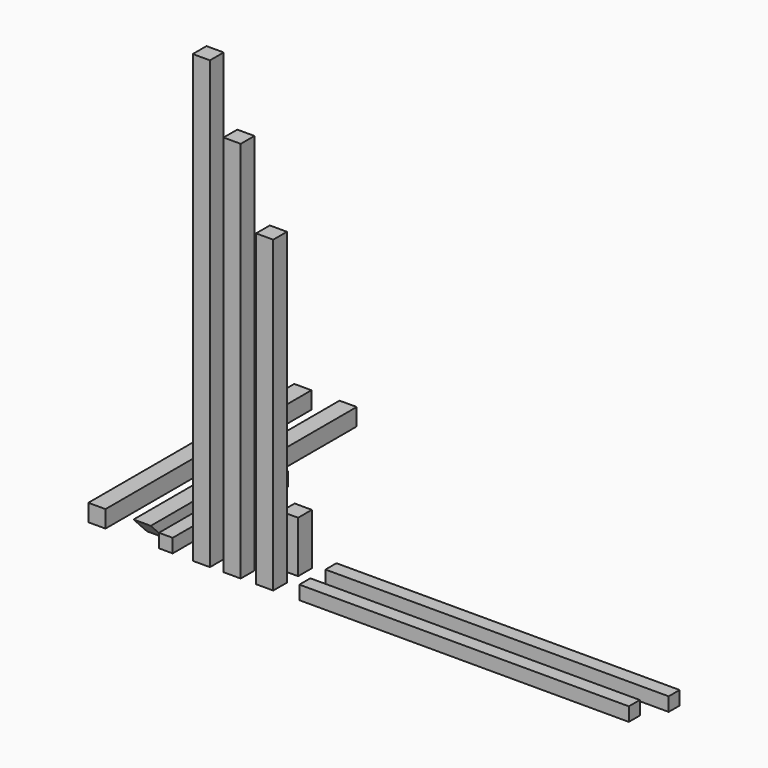
from build123d import *

# Parameters (mm, degrees)
F0_W     = 100
F0_H     = 100
F1_DEPTH = 2600
F2_DEPTH = 2230
F3_DEPTH = 1800
F0_H_2   = 1500
F4_DEPTH = 100
F5_DEPTH = 300
F0_W_2   = 1920
F0_H_3   = 80
F0_W_3   = 2000
F0_W_4   = 80
F0_H_4   = 840
F6_DEPTH = 80
F8_DEPTH = 100


with BuildPart() as f1:
    # F0 (on Top) → F1 (new body)
    with BuildSketch(Plane.XY):
        with Locations((-146.095169, 62.335808)):
            Rectangle(F0_W, F0_H)
    extrude(amount=F1_DEPTH)


with BuildPart() as f2:
    # F0 (on Top) → F2 (new body)
    with BuildSketch(Plane.XY):
        with Locations((33.366184, 62.335808)):
            Rectangle(F0_W, F0_H)
    extrude(amount=F2_DEPTH)


with BuildPart() as f3:
    # F0 (on Top) → F3 (new body)
    with BuildSketch(Plane.XY):
        with Locations((222.795501, 62.335808)):
            Rectangle(F0_W, F0_H)
    extrude(amount=F3_DEPTH)


with BuildPart() as f4:
    # F0 (on Top) → F4 (new body)
    with BuildSketch(Plane.XY):
        with Locations((-490.865839, 762.335808)):
            Rectangle(F0_W, F0_H_2)
        with Locations((-754.561555, 762.335808)):
            Rectangle(F0_W, F0_H_2)
    extrude(amount=F4_DEPTH)

    # F7 (on face) → F8 (cut)
    with BuildSketch(Plane.YZ.offset(-440.865839)):
        Polygon((12.335808, 100), (12.335808, 97.100623), (12.335808, 0), (109.436318, 0), align=None)
    extrude(amount=-F8_DEPTH, mode=Mode.SUBTRACT)


with BuildPart() as f5:
    # F0 (on Top) → F5 (new body)
    with BuildSketch(Plane.XY):
        with Locations((222.795501, 243.335801)):
            Rectangle(F0_W, F0_H)
    extrude(amount=F5_DEPTH)


with BuildPart() as f6:
    # F0 (on Top) → F6 (new body)
    with BuildSketch(Plane.XY):
        with Locations((1384.925715, 52.335808)):
            Rectangle(F0_W_2, F0_H_3)
        with Locations((1424.925715, 242.520639)):
            Rectangle(F0_W_3, F0_H_3)
        with Locations((-353.104821, 432.335808)):
            Rectangle(F0_W_4, F0_H_4)
    extrude(amount=F6_DEPTH)


solid = Compound([f1.part, f2.part, f3.part, f4.part, f5.part, f6.part])
